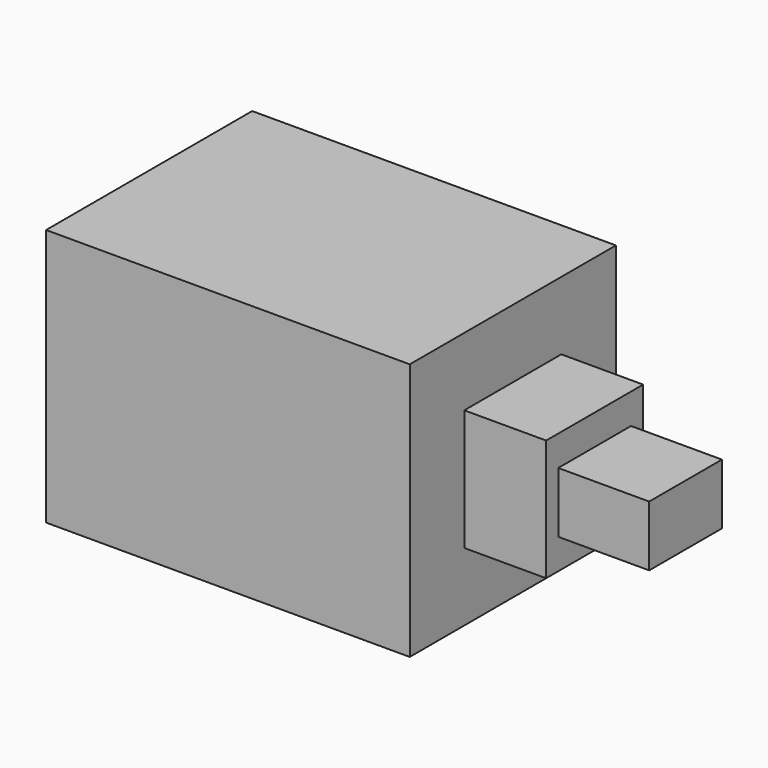
from build123d import *

# Parameters (mm, degrees)
BOX075_W                = 4
BOX075_H                = 4
BOX075_DEPTH            = 5.5
BOX076_W                = 8.5
BOX076_H                = 8.5
BOX076_DEPTH            = 3.5
BOX078_W                = 2
BOX078_H                = 3
BOX078_DEPTH            = 3
BOX074_W                = 8.5
BOX074_H                = 8.5
BOX074_DEPTH            = 8.5
BODY004_PLACEMENT_ANGLE = 90


with BuildPart() as plunger:
    # Box075 → Box075 (new body)
    with BuildSketch(Plane(origin=(-2, -2, 5.7), x_dir=(1, 0, 0), z_dir=(0, 0, 1))):
        with Locations((2, 2)):
            Rectangle(BOX075_W, BOX075_H)
    extrude(amount=BOX075_DEPTH)


with BuildPart() as pins:
    # Box076 → Box076 (new body)
    with BuildSketch(Plane(origin=(-4.25, -4.25, -3.5), x_dir=(1, 0, 0), z_dir=(0, 0, 1))):
        with Locations((4.25, 4.25)):
            Rectangle(BOX076_W, BOX076_H)
    extrude(amount=BOX076_DEPTH)


with BuildPart() as plunger001:
    # Box078 → Box078 (new body)
    with BuildSketch(Plane(origin=(-1, -1.5, 11.2), x_dir=(1, 0, 0), z_dir=(0, 0, 1))):
        with Locations((1, 1.5)):
            Rectangle(BOX078_W, BOX078_H)
    extrude(amount=BOX078_DEPTH)


with BuildPart() as switch:
    # Box074 → Box074 (new body)
    with BuildSketch(Plane(origin=(-4.25, -4.25, 0), x_dir=(1, 0, 0), z_dir=(0, 0, 1))):
        with Locations((4.25, 4.25)):
            Rectangle(BOX074_W, BOX074_H)
    extrude(amount=BOX074_DEPTH)

    # Fusion024: union plunger, pins, plunger001
    add(plunger.part)
    add(pins.part)
    add(plunger001.part)


with BuildPart() as switch_1:
    # Body004 placement: moved
    add(switch.part.moved(Location((17, 0, 38.5))).rotate(Axis((17, 0, 38.5), (0, 1, 0)), BODY004_PLACEMENT_ANGLE))


solid = switch_1.part
